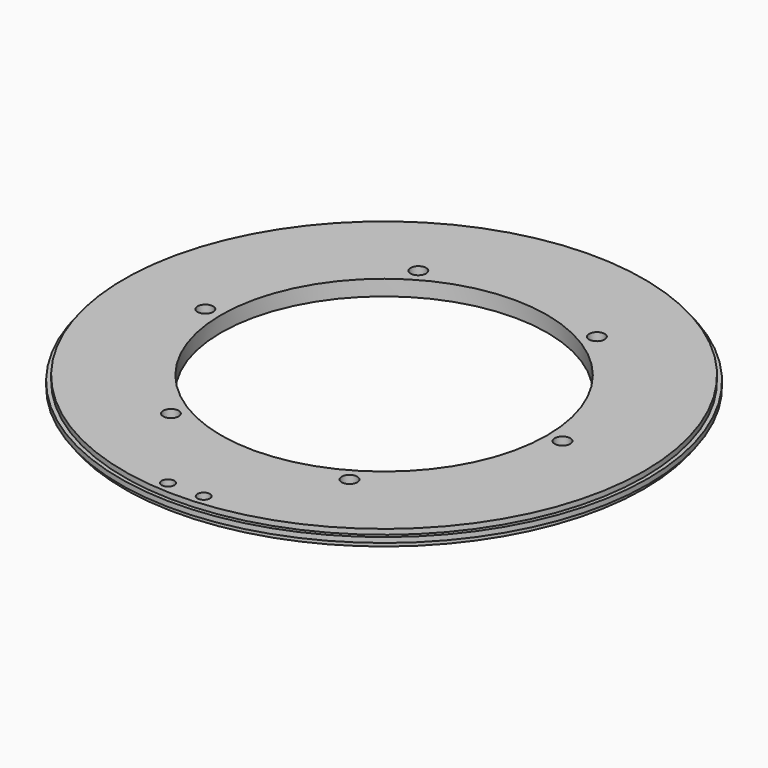
from build123d import *

# Parameters (mm, degrees)
F0_R      = 106.3498
F1_DEPTH  = 2.116667
F0_R_2    = 107.95
F1_FACE_R = 106.3498
F2_DEPTH  = 2.116667
F3_DEPTH  = 4.233333
F4_R      = 66.675
F5_DEPTH  = 6.351
F6_R      = 3.175
F7_DEPTH  = 25.4
F8_R      = 2.54
F9_DEPTH  = 6.351


with BuildPart() as f1:
    # F0 (on Top) → F1 (new body)
    with BuildSketch(Plane.XY):
        Circle(F0_R)
    extrude(amount=F1_DEPTH)

    # F0 (on Top) + F1_face (on face) → F2 (join)
    with BuildSketch(Plane.XY):
        Circle(F0_R_2)
        Circle(F0_R, mode=Mode.SUBTRACT)
    with BuildSketch(Plane(origin=(0, 0, 0), x_dir=(1, 0, 0), z_dir=(0, 0, -1))):
        Circle(F1_FACE_R)
    extrude(amount=-F2_DEPTH)

    # F0 (on Top) → F3 (join)
    with BuildSketch(Plane.XY):
        Circle(F0_R)
    extrude(amount=-F3_DEPTH)

    # F4 (on face) → F5 (cut, through all)
    with BuildSketch(Plane.XY.offset(2.116667)):
        Circle(F4_R)
    extrude(amount=-F5_DEPTH, mode=Mode.SUBTRACT)

    # F6 (on face) → F7 (cut)
    with BuildSketch(Plane.XY.offset(2.116667)):
        with Locations((-73.088507, -0.004187)):
            Circle(F6_R)
        with Locations((36.448993, 63.237318)):
            Circle(F6_R)
        with Locations((72.961493, -0.004187)):
            Circle(F6_R)
        with Locations((36.448993, -63.245692)):
            Circle(F6_R)
        with Locations((-36.576007, -63.245692)):
            Circle(F6_R)
        with Locations((-36.576007, 63.237318)):
            Circle(F6_R)
    extrude(amount=-F7_DEPTH, mode=Mode.SUBTRACT)

    # F8 (on face) → F9 (cut, through all)
    with BuildSketch(Plane.XY.offset(2.116667)):
        with Locations((-7.293369, -101.353851)):
            Circle(F8_R)
        with Locations((7.293369, -101.353851)):
            Circle(F8_R)
    extrude(amount=-F9_DEPTH, mode=Mode.SUBTRACT)


solid = f1.part
